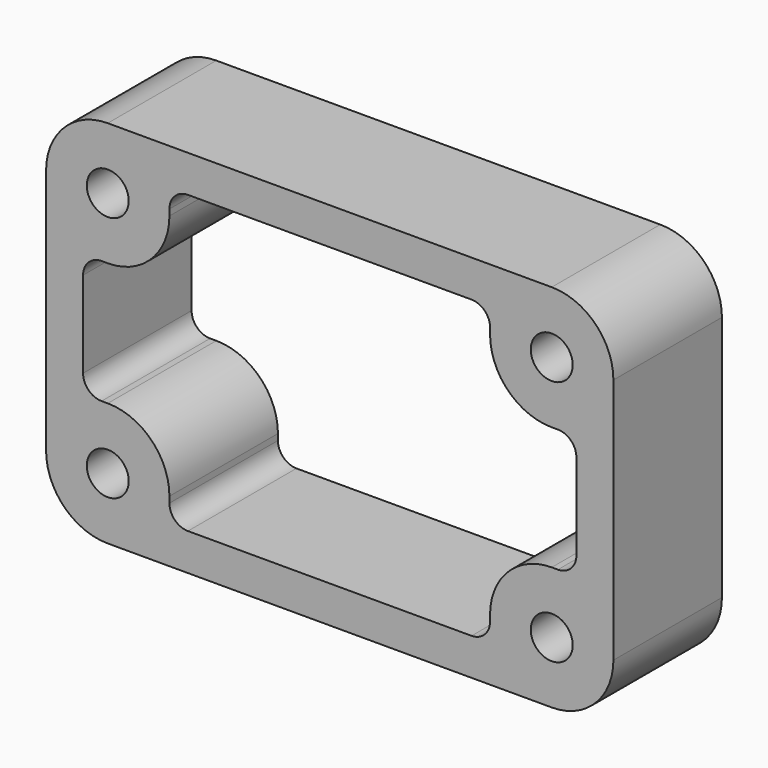
from build123d import *

# Parameters (mm, degrees)
SKETCH006_W = 46
SKETCH006_H = 30
SKETCH006_R = 1.7
PAD_DEPTH   = 11
FILLET_R    = 5
FILLET001_R = 5
FILLET002_R = 5
FILLET003_R = 5
FILLET004_R = 5
FILLET005_R = 5
FILLET006_R = 5
FILLET007_R = 5
FILLET008_R = 1.5
FILLET009_R = 1.5
FILLET010_R = 1.5
FILLET011_R = 1.5
FILLET012_R = 1.5
FILLET013_R = 1.5
FILLET014_R = 1.5
FILLET015_R = 1.5


with BuildPart() as part:
    # Sketch006 → Pad (new body)
    with BuildSketch(Plane(origin=(0, 25, 0), x_dir=(-1, 0, 0), z_dir=(0, 1, 0))):
        with Locations((0, 30)):
            Rectangle(SKETCH006_W, SKETCH006_H)
        with Locations((-18, 20)):
            Circle(SKETCH006_R, mode=Mode.SUBTRACT)
        with Locations((18, 20)):
            Circle(SKETCH006_R, mode=Mode.SUBTRACT)
        with Locations((-18, 40)):
            Circle(SKETCH006_R, mode=Mode.SUBTRACT)
        with Locations((18, 40)):
            Circle(SKETCH006_R, mode=Mode.SUBTRACT)
        Polygon((-13, 35), (-13, 42), (13, 42), (13, 35), (20, 35), (20, 25), (13, 25), (13, 18), (-13, 18), (-13, 25), (-20, 25), (-20, 35), align=None, mode=Mode.SUBTRACT)
    extrude(amount=PAD_DEPTH)

    # Fillet
    fillet_edges = [part.edges().sort_by_distance(p)[0] for p in [
        (23, 30.5, 45),
    ]]
    fillet(fillet_edges, radius=FILLET_R)

    # Fillet001
    fillet001_edges = [part.edges().sort_by_distance(p)[0] for p in [
        (23, 30.5, 15),
    ]]
    fillet(fillet001_edges, radius=FILLET001_R)

    # Fillet002
    fillet002_edges = [part.edges().sort_by_distance(p)[0] for p in [
        (-23, 30.5, 15),
    ]]
    fillet(fillet002_edges, radius=FILLET002_R)

    # Fillet003
    fillet003_edges = [part.edges().sort_by_distance(p)[0] for p in [
        (-23, 30.5, 45),
    ]]
    fillet(fillet003_edges, radius=FILLET003_R)

    # Fillet004
    fillet004_edges = [part.edges().sort_by_distance(p)[0] for p in [
        (13, 30.5, 25),
    ]]
    fillet(fillet004_edges, radius=FILLET004_R)

    # Fillet005
    fillet005_edges = [part.edges().sort_by_distance(p)[0] for p in [
        (13, 30.5, 35),
    ]]
    fillet(fillet005_edges, radius=FILLET005_R)

    # Fillet006
    fillet006_edges = [part.edges().sort_by_distance(p)[0] for p in [
        (-13, 30.5, 35),
    ]]
    fillet(fillet006_edges, radius=FILLET006_R)

    # Fillet007
    fillet007_edges = [part.edges().sort_by_distance(p)[0] for p in [
        (-13, 30.5, 25),
    ]]
    fillet(fillet007_edges, radius=FILLET007_R)

    # Fillet008
    fillet008_edges = [part.edges().sort_by_distance(p)[0] for p in [
        (-13, 30.5, 42),
    ]]
    fillet(fillet008_edges, radius=FILLET008_R)

    # Fillet009
    fillet009_edges = [part.edges().sort_by_distance(p)[0] for p in [
        (13, 30.5, 42),
    ]]
    fillet(fillet009_edges, radius=FILLET009_R)

    # Fillet010
    fillet010_edges = [part.edges().sort_by_distance(p)[0] for p in [
        (20, 30.5, 35),
    ]]
    fillet(fillet010_edges, radius=FILLET010_R)

    # Fillet011
    fillet011_edges = [part.edges().sort_by_distance(p)[0] for p in [
        (20, 30.5, 25),
    ]]
    fillet(fillet011_edges, radius=FILLET011_R)

    # Fillet012
    fillet012_edges = [part.edges().sort_by_distance(p)[0] for p in [
        (13, 30.5, 18),
    ]]
    fillet(fillet012_edges, radius=FILLET012_R)

    # Fillet013
    fillet013_edges = [part.edges().sort_by_distance(p)[0] for p in [
        (-20, 30.5, 35),
    ]]
    fillet(fillet013_edges, radius=FILLET013_R)

    # Fillet014
    fillet014_edges = [part.edges().sort_by_distance(p)[0] for p in [
        (-13, 30.5, 18),
    ]]
    fillet(fillet014_edges, radius=FILLET014_R)

    # Fillet015
    fillet015_edges = [part.edges().sort_by_distance(p)[0] for p in [
        (-20, 30.5, 25),
    ]]
    fillet(fillet015_edges, radius=FILLET015_R)


solid = part.part
